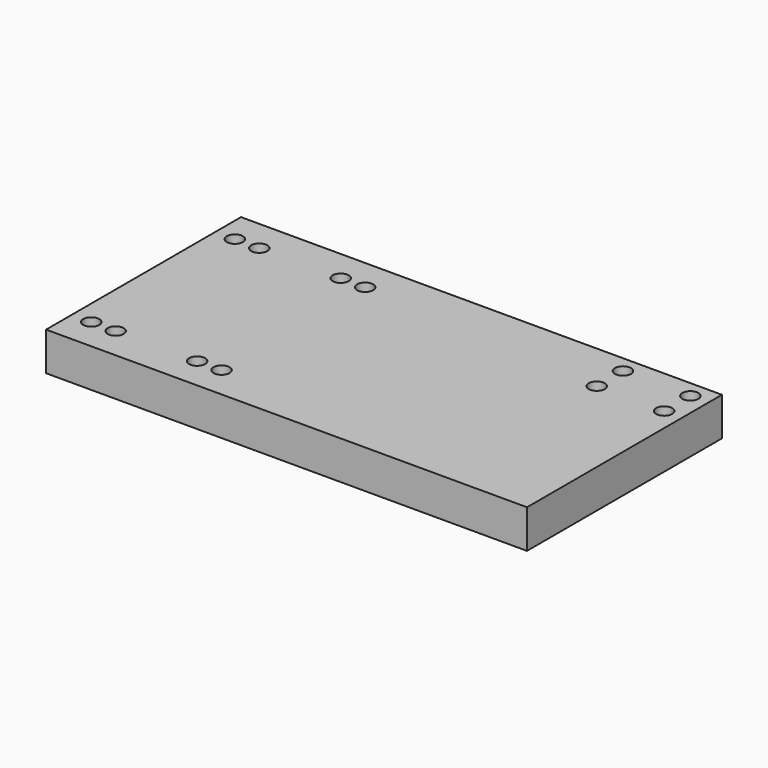
from build123d import *

# Parameters (mm, degrees)
F0_W     = 150.0124
F0_H     = 75.9968
F0_R     = 2.5019
F1_DEPTH = 11.9888


with BuildPart() as f1:
    # F0 (on Top) → F1 (new body)
    with BuildSketch(Plane.XY):
        Rectangle(F0_W, F0_H)
        with Locations((-68.915026, -27.9908)):
            Circle(F0_R, mode=Mode.SUBTRACT)
        with Locations((-61.295026, -27.9908)):
            Circle(F0_R, mode=Mode.SUBTRACT)
        with Locations((-35.895026, -27.9908)):
            Circle(F0_R, mode=Mode.SUBTRACT)
        with Locations((-28.275026, -27.9908)):
            Circle(F0_R, mode=Mode.SUBTRACT)
        with Locations((-68.915026, 27.9908)):
            Circle(F0_R, mode=Mode.SUBTRACT)
        with Locations((-61.295026, 27.9908)):
            Circle(F0_R, mode=Mode.SUBTRACT)
        with Locations((-35.895026, 27.9908)):
            Circle(F0_R, mode=Mode.SUBTRACT)
        with Locations((-28.275026, 27.9908)):
            Circle(F0_R, mode=Mode.SUBTRACT)
        with Locations((48.354968, 22.5044)):
            Circle(F0_R, mode=Mode.SUBTRACT)
        with Locations((69.382675, 22.5044)):
            Circle(F0_R, mode=Mode.SUBTRACT)
        with Locations((48.354968, 32.7341)):
            Circle(F0_R, mode=Mode.SUBTRACT)
        with Locations((69.382675, 32.7341)):
            Circle(F0_R, mode=Mode.SUBTRACT)
    extrude(amount=F1_DEPTH)


solid = f1.part
